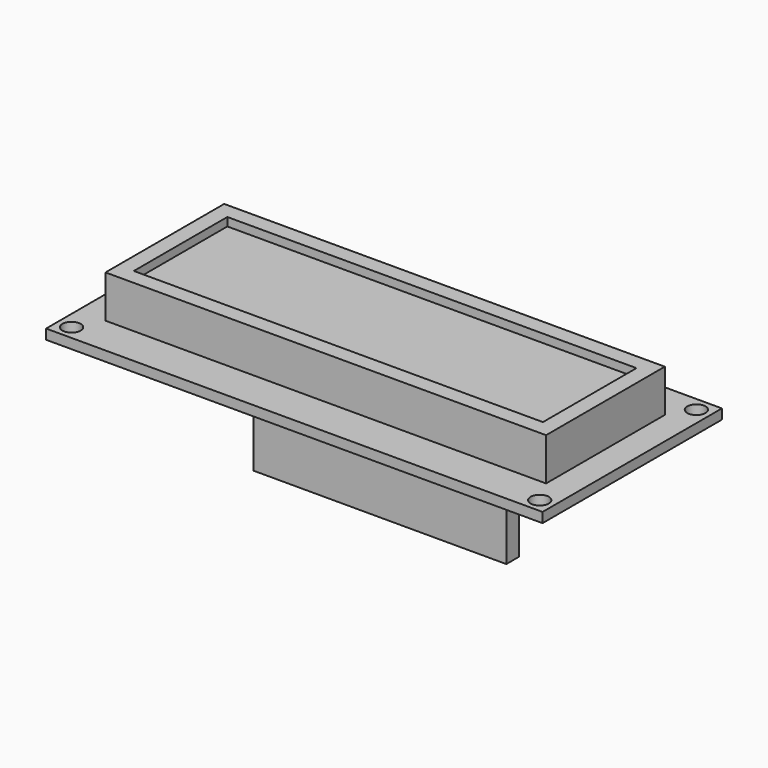
from build123d import *

# Parameters (mm, degrees)
F0_W     = 80.137
F0_H     = 36.195
F0_R     = 1.4732
F1_DEPTH = 1.6002
F2_W     = 71.12
F2_H     = 23.9522
F3_DEPTH = 6.858
F4_T     = -2.54
F5_DEPTH = 4.572
F6_W     = 40.8432
F6_H     = 2.54
F7_DEPTH = 8.5598


with BuildPart() as f1:
    # F0 (on Top) → F1 (new body)
    with BuildSketch(Plane.XY):
        Rectangle(F0_W, F0_H)
        with Locations((-37.7825, -15.8115)):
            Circle(F0_R, mode=Mode.SUBTRACT)
        with Locations((37.7825, -15.8115)):
            Circle(F0_R, mode=Mode.SUBTRACT)
        with Locations((-37.7825, 15.8115)):
            Circle(F0_R, mode=Mode.SUBTRACT)
        with Locations((37.7825, 15.8115)):
            Circle(F0_R, mode=Mode.SUBTRACT)
    extrude(amount=F1_DEPTH)

    # F2 (on face) → F3 (join)
    with BuildSketch(Plane.XY.offset(1.6002)):
        with Locations((0, 0.2286)):
            Rectangle(F2_W, F2_H)
    extrude(amount=F3_DEPTH)

    # F4
    f4_openings = [f1.faces().sort_by_distance(p)[0] for p in [
        (0, 0.2286, 8.4582),
    ]]
    offset(amount=F4_T, openings=f4_openings)

    # F5 (add): a face of the model
    f5_faces = [f1.faces().sort_by_distance(p)[0] for p in [
        (0, 0.2286, 2.54),
    ]]
    extrude(f5_faces, amount=F5_DEPTH)

    # F6 (on face) → F7 (join)
    with BuildSketch(Plane(origin=(0, 0, 0), x_dir=(1, 0, 0), z_dir=(0, 0, -1))):
        with Locations((12.7889, 15.5575)):
            Rectangle(F6_W, F6_H)
        with Locations((12.7889, 15.5575)):
            Rectangle(F6_W, F6_H)
    extrude(amount=F7_DEPTH)


solid = f1.part
